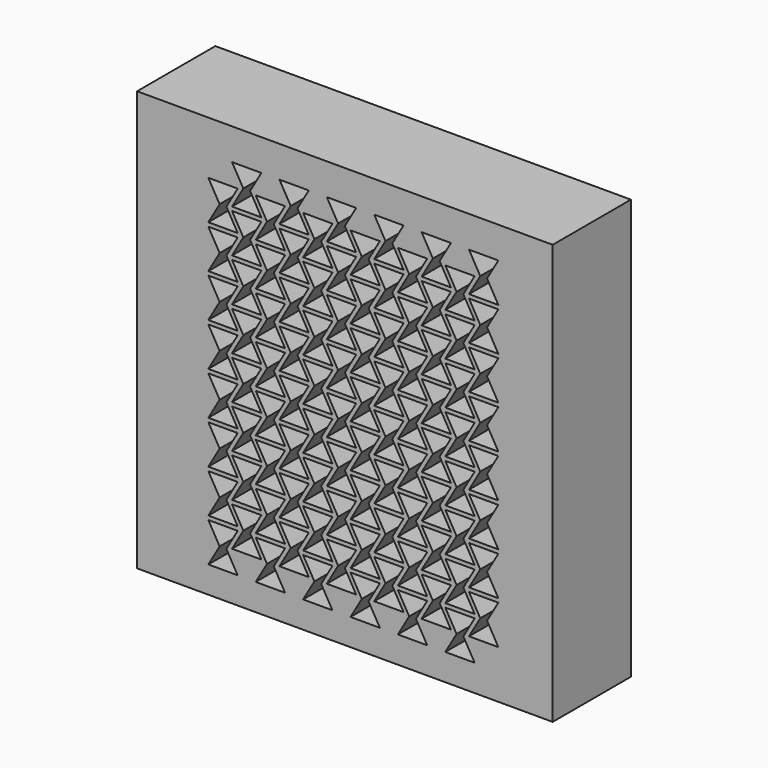
from build123d import *

# Parameters (mm, degrees)
F0_W     = 212.455038
F0_H     = 214.721228
F1_DEPTH = 50


with BuildPart() as f1:
    # F0 (on Front) → F1 (new body)
    with BuildSketch(Plane.XZ):
        with Locations((69.800852, 93.735727)):
            Rectangle(F0_W, F0_H)
        Polygon((15, 0), (0, 0), (5.773503, 10), (0, 20), (15, 20), (9.226497, 10), align=None, mode=Mode.SUBTRACT)
        Polygon((15, 22), (0, 22), (5.773503, 32), (0, 42), (15, 42), (9.226497, 32), align=None, mode=Mode.SUBTRACT)
        Polygon((39.226497, 0), (24.226497, 0), (30, 10), (24.226497, 20), (39.226497, 20), (33.452995, 10), align=None, mode=Mode.SUBTRACT)
        Polygon((63.452995, 0), (48.452995, 0), (54.226497, 10), (48.452995, 20), (63.452995, 20), (57.679492, 10), align=None, mode=Mode.SUBTRACT)
        Polygon((27.113249, 11), (12.113249, 11), (17.886751, 21), (12.113249, 31), (27.113249, 31), (21.339746, 21), align=None, mode=Mode.SUBTRACT)
        Polygon((39.226497, 22), (24.226497, 22), (30, 32), (24.226497, 42), (39.226497, 42), (33.452995, 32), align=None, mode=Mode.SUBTRACT)
        Polygon((51.339746, 11), (36.339746, 11), (42.113249, 21), (36.339746, 31), (51.339746, 31), (45.566243, 21), align=None, mode=Mode.SUBTRACT)
        Polygon((75.566243, 11), (60.566243, 11), (66.339746, 21), (60.566243, 31), (75.566243, 31), (69.792741, 21), align=None, mode=Mode.SUBTRACT)
        Polygon((63.452995, 22), (48.452995, 22), (54.226497, 32), (48.452995, 42), (63.452995, 42), (57.679492, 32), align=None, mode=Mode.SUBTRACT)
        Polygon((15, 44), (0, 44), (5.773503, 54), (0, 64), (15, 64), (9.226497, 54), align=None, mode=Mode.SUBTRACT)
        Polygon((15, 66), (0, 66), (5.773503, 76), (0, 86), (15, 86), (9.226497, 76), align=None, mode=Mode.SUBTRACT)
        Polygon((27.113249, 33), (12.113249, 33), (17.886751, 43), (12.113249, 53), (27.113249, 53), (21.339746, 43), align=None, mode=Mode.SUBTRACT)
        Polygon((27.113249, 55), (12.113249, 55), (17.886751, 65), (12.113249, 75), (27.113249, 75), (21.339746, 65), align=None, mode=Mode.SUBTRACT)
        Polygon((39.226497, 44), (24.226497, 44), (30, 54), (24.226497, 64), (39.226497, 64), (33.452995, 54), align=None, mode=Mode.SUBTRACT)
        Polygon((51.339746, 33), (36.339746, 33), (42.113249, 43), (36.339746, 53), (51.339746, 53), (45.566243, 43), align=None, mode=Mode.SUBTRACT)
        Polygon((75.566243, 33), (60.566243, 33), (66.339746, 43), (60.566243, 53), (75.566243, 53), (69.792741, 43), align=None, mode=Mode.SUBTRACT)
        Polygon((63.452995, 44), (48.452995, 44), (54.226497, 54), (48.452995, 64), (63.452995, 64), (57.679492, 54), align=None, mode=Mode.SUBTRACT)
        Polygon((51.339746, 55), (36.339746, 55), (42.113249, 65), (36.339746, 75), (51.339746, 75), (45.566243, 65), align=None, mode=Mode.SUBTRACT)
        Polygon((75.566243, 55), (60.566243, 55), (66.339746, 65), (60.566243, 75), (75.566243, 75), (69.792741, 65), align=None, mode=Mode.SUBTRACT)
        Polygon((39.226497, 66), (24.226497, 66), (30, 76), (24.226497, 86), (39.226497, 86), (33.452995, 76), align=None, mode=Mode.SUBTRACT)
        Polygon((27.113249, 77), (12.113249, 77), (17.886751, 87), (12.113249, 97), (27.113249, 97), (21.339746, 87), align=None, mode=Mode.SUBTRACT)
        Polygon((63.452995, 66), (48.452995, 66), (54.226497, 76), (48.452995, 86), (63.452995, 86), (57.679492, 76), align=None, mode=Mode.SUBTRACT)
        Polygon((51.339746, 77), (36.339746, 77), (42.113249, 87), (36.339746, 97), (51.339746, 97), (45.566243, 87), align=None, mode=Mode.SUBTRACT)
        Polygon((75.566243, 77), (60.566243, 77), (66.339746, 87), (60.566243, 97), (75.566243, 97), (69.792741, 87), align=None, mode=Mode.SUBTRACT)
        Polygon((87.679492, 0), (72.679492, 0), (78.452995, 10), (72.679492, 20), (87.679492, 20), (81.905989, 10), align=None, mode=Mode.SUBTRACT)
        Polygon((111.905989, 0), (96.905989, 0), (102.679492, 10), (96.905989, 20), (111.905989, 20), (106.132487, 10), align=None, mode=Mode.SUBTRACT)
        Polygon((99.792741, 11), (84.792741, 11), (90.566243, 21), (84.792741, 31), (99.792741, 31), (94.019238, 21), align=None, mode=Mode.SUBTRACT)
        Polygon((87.679492, 22), (72.679492, 22), (78.452995, 32), (72.679492, 42), (87.679492, 42), (81.905989, 32), align=None, mode=Mode.SUBTRACT)
        Polygon((124.019238, 11), (109.019238, 11), (114.792741, 21), (109.019238, 31), (124.019238, 31), (118.245735, 21), align=None, mode=Mode.SUBTRACT)
        Polygon((111.905989, 22), (96.905989, 22), (102.679492, 32), (96.905989, 42), (111.905989, 42), (106.132487, 32), align=None, mode=Mode.SUBTRACT)
        Polygon((136.132487, 0), (121.132487, 0), (126.905989, 10), (121.132487, 20), (136.132487, 20), (130.358984, 10), align=None, mode=Mode.SUBTRACT)
        Polygon((148.245735, 11), (133.245735, 11), (139.019238, 21), (133.245735, 31), (148.245735, 31), (142.472233, 21), align=None, mode=Mode.SUBTRACT)
        Polygon((136.132487, 22), (121.132487, 22), (126.905989, 32), (121.132487, 42), (136.132487, 42), (130.358984, 32), align=None, mode=Mode.SUBTRACT)
        Polygon((99.792741, 33), (84.792741, 33), (90.566243, 43), (84.792741, 53), (99.792741, 53), (94.019238, 43), align=None, mode=Mode.SUBTRACT)
        Polygon((87.679492, 44), (72.679492, 44), (78.452995, 54), (72.679492, 64), (87.679492, 64), (81.905989, 54), align=None, mode=Mode.SUBTRACT)
        Polygon((99.792741, 55), (84.792741, 55), (90.566243, 65), (84.792741, 75), (99.792741, 75), (94.019238, 65), align=None, mode=Mode.SUBTRACT)
        Polygon((124.019238, 33), (109.019238, 33), (114.792741, 43), (109.019238, 53), (124.019238, 53), (118.245735, 43), align=None, mode=Mode.SUBTRACT)
        Polygon((111.905989, 44), (96.905989, 44), (102.679492, 54), (96.905989, 64), (111.905989, 64), (106.132487, 54), align=None, mode=Mode.SUBTRACT)
        Polygon((124.019238, 55), (109.019238, 55), (114.792741, 65), (109.019238, 75), (124.019238, 75), (118.245735, 65), align=None, mode=Mode.SUBTRACT)
        Polygon((87.679492, 66), (72.679492, 66), (78.452995, 76), (72.679492, 86), (87.679492, 86), (81.905989, 76), align=None, mode=Mode.SUBTRACT)
        Polygon((99.792741, 77), (84.792741, 77), (90.566243, 87), (84.792741, 97), (99.792741, 97), (94.019238, 87), align=None, mode=Mode.SUBTRACT)
        Polygon((111.905989, 66), (96.905989, 66), (102.679492, 76), (96.905989, 86), (111.905989, 86), (106.132487, 76), align=None, mode=Mode.SUBTRACT)
        Polygon((124.019238, 77), (109.019238, 77), (114.792741, 87), (109.019238, 97), (124.019238, 97), (118.245735, 87), align=None, mode=Mode.SUBTRACT)
        Polygon((148.245735, 33), (133.245735, 33), (139.019238, 43), (133.245735, 53), (148.245735, 53), (142.472233, 43), align=None, mode=Mode.SUBTRACT)
        Polygon((136.132487, 44), (121.132487, 44), (126.905989, 54), (121.132487, 64), (136.132487, 64), (130.358984, 54), align=None, mode=Mode.SUBTRACT)
        Polygon((148.245735, 55), (133.245735, 55), (139.019238, 65), (133.245735, 75), (148.245735, 75), (142.472233, 65), align=None, mode=Mode.SUBTRACT)
        Polygon((136.132487, 66), (121.132487, 66), (126.905989, 76), (121.132487, 86), (136.132487, 86), (130.358984, 76), align=None, mode=Mode.SUBTRACT)
        Polygon((148.245735, 77), (133.245735, 77), (139.019238, 87), (133.245735, 97), (148.245735, 97), (142.472233, 87), align=None, mode=Mode.SUBTRACT)
        Polygon((15, 88), (0, 88), (5.773503, 98), (0, 108), (15, 108), (9.226497, 98), align=None, mode=Mode.SUBTRACT)
        Polygon((15, 110), (0, 110), (5.773503, 120), (0, 130), (15, 130), (9.226497, 120), align=None, mode=Mode.SUBTRACT)
        Polygon((15, 132), (0, 132), (5.773503, 142), (0, 152), (15, 152), (9.226497, 142), align=None, mode=Mode.SUBTRACT)
        Polygon((39.226497, 88), (24.226497, 88), (30, 98), (24.226497, 108), (39.226497, 108), (33.452995, 98), align=None, mode=Mode.SUBTRACT)
        Polygon((27.113249, 99), (12.113249, 99), (17.886751, 109), (12.113249, 119), (27.113249, 119), (21.339746, 109), align=None, mode=Mode.SUBTRACT)
        Polygon((39.226497, 110), (24.226497, 110), (30, 120), (24.226497, 130), (39.226497, 130), (33.452995, 120), align=None, mode=Mode.SUBTRACT)
        Polygon((63.452995, 88), (48.452995, 88), (54.226497, 98), (48.452995, 108), (63.452995, 108), (57.679492, 98), align=None, mode=Mode.SUBTRACT)
        Polygon((51.339746, 99), (36.339746, 99), (42.113249, 109), (36.339746, 119), (51.339746, 119), (45.566243, 109), align=None, mode=Mode.SUBTRACT)
        Polygon((63.452995, 110), (48.452995, 110), (54.226497, 120), (48.452995, 130), (63.452995, 130), (57.679492, 120), align=None, mode=Mode.SUBTRACT)
        Polygon((75.566243, 99), (60.566243, 99), (66.339746, 109), (60.566243, 119), (75.566243, 119), (69.792741, 109), align=None, mode=Mode.SUBTRACT)
        Polygon((27.113249, 121), (12.113249, 121), (17.886751, 131), (12.113249, 141), (27.113249, 141), (21.339746, 131), align=None, mode=Mode.SUBTRACT)
        Polygon((39.226497, 132), (24.226497, 132), (30, 142), (24.226497, 152), (39.226497, 152), (33.452995, 142), align=None, mode=Mode.SUBTRACT)
        Polygon((51.339746, 121), (36.339746, 121), (42.113249, 131), (36.339746, 141), (51.339746, 141), (45.566243, 131), align=None, mode=Mode.SUBTRACT)
        Polygon((75.566243, 121), (60.566243, 121), (66.339746, 131), (60.566243, 141), (75.566243, 141), (69.792741, 131), align=None, mode=Mode.SUBTRACT)
        Polygon((63.452995, 132), (48.452995, 132), (54.226497, 142), (48.452995, 152), (63.452995, 152), (57.679492, 142), align=None, mode=Mode.SUBTRACT)
        Polygon((15, 154), (0, 154), (5.773503, 164), (0, 174), (15, 174), (9.226497, 164), align=None, mode=Mode.SUBTRACT)
        Polygon((27.113249, 143), (12.113249, 143), (17.886751, 153), (12.113249, 163), (27.113249, 163), (21.339746, 153), align=None, mode=Mode.SUBTRACT)
        Polygon((39.226497, 154), (24.226497, 154), (30, 164), (24.226497, 174), (39.226497, 174), (33.452995, 164), align=None, mode=Mode.SUBTRACT)
        Polygon((51.339746, 143), (36.339746, 143), (42.113249, 153), (36.339746, 163), (51.339746, 163), (45.566243, 153), align=None, mode=Mode.SUBTRACT)
        Polygon((75.566243, 143), (60.566243, 143), (66.339746, 153), (60.566243, 163), (75.566243, 163), (69.792741, 153), align=None, mode=Mode.SUBTRACT)
        Polygon((63.452995, 154), (48.452995, 154), (54.226497, 164), (48.452995, 174), (63.452995, 174), (57.679492, 164), align=None, mode=Mode.SUBTRACT)
        Polygon((27.113249, 165), (12.113249, 165), (17.886751, 175), (12.113249, 185), (27.113249, 185), (21.339746, 175), align=None, mode=Mode.SUBTRACT)
        Polygon((51.339746, 165), (36.339746, 165), (42.113249, 175), (36.339746, 185), (51.339746, 185), (45.566243, 175), align=None, mode=Mode.SUBTRACT)
        Polygon((75.566243, 165), (60.566243, 165), (66.339746, 175), (60.566243, 185), (75.566243, 185), (69.792741, 175), align=None, mode=Mode.SUBTRACT)
        Polygon((87.679492, 88), (72.679492, 88), (78.452995, 98), (72.679492, 108), (87.679492, 108), (81.905989, 98), align=None, mode=Mode.SUBTRACT)
        Polygon((87.679492, 110), (72.679492, 110), (78.452995, 120), (72.679492, 130), (87.679492, 130), (81.905989, 120), align=None, mode=Mode.SUBTRACT)
        Polygon((99.792741, 99), (84.792741, 99), (90.566243, 109), (84.792741, 119), (99.792741, 119), (94.019238, 109), align=None, mode=Mode.SUBTRACT)
        Polygon((111.905989, 88), (96.905989, 88), (102.679492, 98), (96.905989, 108), (111.905989, 108), (106.132487, 98), align=None, mode=Mode.SUBTRACT)
        Polygon((111.905989, 110), (96.905989, 110), (102.679492, 120), (96.905989, 130), (111.905989, 130), (106.132487, 120), align=None, mode=Mode.SUBTRACT)
        Polygon((124.019238, 99), (109.019238, 99), (114.792741, 109), (109.019238, 119), (124.019238, 119), (118.245735, 109), align=None, mode=Mode.SUBTRACT)
        Polygon((99.792741, 121), (84.792741, 121), (90.566243, 131), (84.792741, 141), (99.792741, 141), (94.019238, 131), align=None, mode=Mode.SUBTRACT)
        Polygon((87.679492, 132), (72.679492, 132), (78.452995, 142), (72.679492, 152), (87.679492, 152), (81.905989, 142), align=None, mode=Mode.SUBTRACT)
        Polygon((124.019238, 121), (109.019238, 121), (114.792741, 131), (109.019238, 141), (124.019238, 141), (118.245735, 131), align=None, mode=Mode.SUBTRACT)
        Polygon((111.905989, 132), (96.905989, 132), (102.679492, 142), (96.905989, 152), (111.905989, 152), (106.132487, 142), align=None, mode=Mode.SUBTRACT)
        Polygon((136.132487, 88), (121.132487, 88), (126.905989, 98), (121.132487, 108), (136.132487, 108), (130.358984, 98), align=None, mode=Mode.SUBTRACT)
        Polygon((136.132487, 110), (121.132487, 110), (126.905989, 120), (121.132487, 130), (136.132487, 130), (130.358984, 120), align=None, mode=Mode.SUBTRACT)
        Polygon((148.245735, 99), (133.245735, 99), (139.019238, 109), (133.245735, 119), (148.245735, 119), (142.472233, 109), align=None, mode=Mode.SUBTRACT)
        Polygon((148.245735, 121), (133.245735, 121), (139.019238, 131), (133.245735, 141), (148.245735, 141), (142.472233, 131), align=None, mode=Mode.SUBTRACT)
        Polygon((136.132487, 132), (121.132487, 132), (126.905989, 142), (121.132487, 152), (136.132487, 152), (130.358984, 142), align=None, mode=Mode.SUBTRACT)
        Polygon((99.792741, 143), (84.792741, 143), (90.566243, 153), (84.792741, 163), (99.792741, 163), (94.019238, 153), align=None, mode=Mode.SUBTRACT)
        Polygon((87.679492, 154), (72.679492, 154), (78.452995, 164), (72.679492, 174), (87.679492, 174), (81.905989, 164), align=None, mode=Mode.SUBTRACT)
        Polygon((124.019238, 143), (109.019238, 143), (114.792741, 153), (109.019238, 163), (124.019238, 163), (118.245735, 153), align=None, mode=Mode.SUBTRACT)
        Polygon((111.905989, 154), (96.905989, 154), (102.679492, 164), (96.905989, 174), (111.905989, 174), (106.132487, 164), align=None, mode=Mode.SUBTRACT)
        Polygon((99.792741, 165), (84.792741, 165), (90.566243, 175), (84.792741, 185), (99.792741, 185), (94.019238, 175), align=None, mode=Mode.SUBTRACT)
        Polygon((124.019238, 165), (109.019238, 165), (114.792741, 175), (109.019238, 185), (124.019238, 185), (118.245735, 175), align=None, mode=Mode.SUBTRACT)
        Polygon((148.245735, 143), (133.245735, 143), (139.019238, 153), (133.245735, 163), (148.245735, 163), (142.472233, 153), align=None, mode=Mode.SUBTRACT)
        Polygon((136.132487, 154), (121.132487, 154), (126.905989, 164), (121.132487, 174), (136.132487, 174), (130.358984, 164), align=None, mode=Mode.SUBTRACT)
        Polygon((148.245735, 165), (133.245735, 165), (139.019238, 175), (133.245735, 185), (148.245735, 185), (142.472233, 175), align=None, mode=Mode.SUBTRACT)
    extrude(amount=F1_DEPTH)


solid = f1.part
